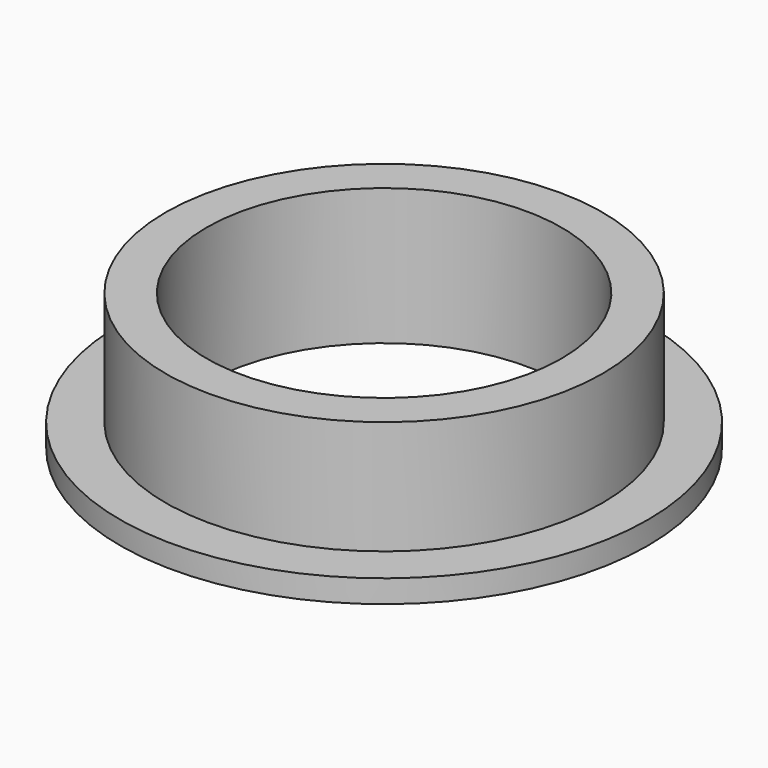
from build123d import *

# Parameters (mm, degrees)
F0_R        = 36.83
F0_R_2      = 24.765
F1_DEPTH    = 19.05
F3_R        = 36.83
F3_R_2      = 30.48
F1_FACE_R   = 36.83
F1_FACE_R_2 = 24.765
F4_DEPTH    = 63.5


with BuildPart() as f1:
    # F0 (on Top) → F1 (new body)
    with BuildSketch(Plane.XY):
        Circle(F0_R)
        Circle(F0_R_2, mode=Mode.SUBTRACT)
    extrude(amount=F1_DEPTH)

    # F3 (on offset) + F1_face (on face) → F4 (cut)
    with BuildSketch(Plane.XY.offset(3.175)):
        Circle(F3_R)
        Circle(F3_R_2, mode=Mode.SUBTRACT)
    with BuildSketch(Plane.XY.offset(19.05)):
        Circle(F1_FACE_R)
        Circle(F1_FACE_R_2, mode=Mode.SUBTRACT)
    extrude(amount=F4_DEPTH, mode=Mode.SUBTRACT)


solid = f1.part
